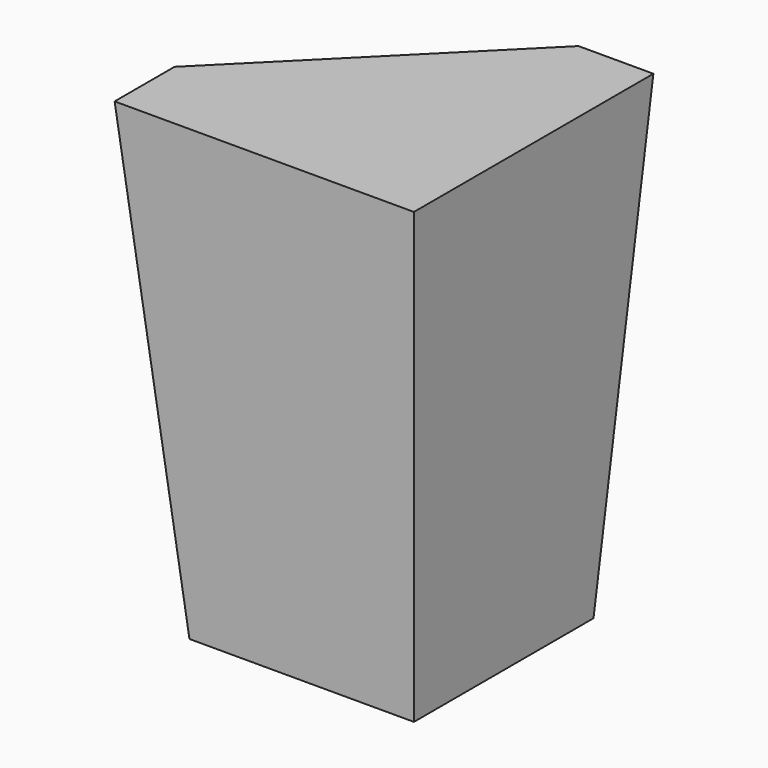
from build123d import *


with BuildPart() as f3:
    # F2 (on offset) → F3 section 0
    with BuildSketch(Plane.XY.offset(152.4)):
        Polygon((-25.4, 0), (76.2, 0), (76.2, 101.6), (50.8, 101.6), (-25.4, 25.4), align=None)
    # F0 (on Top) → F3 section 1
    with BuildSketch(Plane.XY):
        Polygon((0, 50.8), (0, 0), (76.2, 0), (76.2, 76.2), (25.4, 76.2), align=None)
    loft()


solid = f3.part
